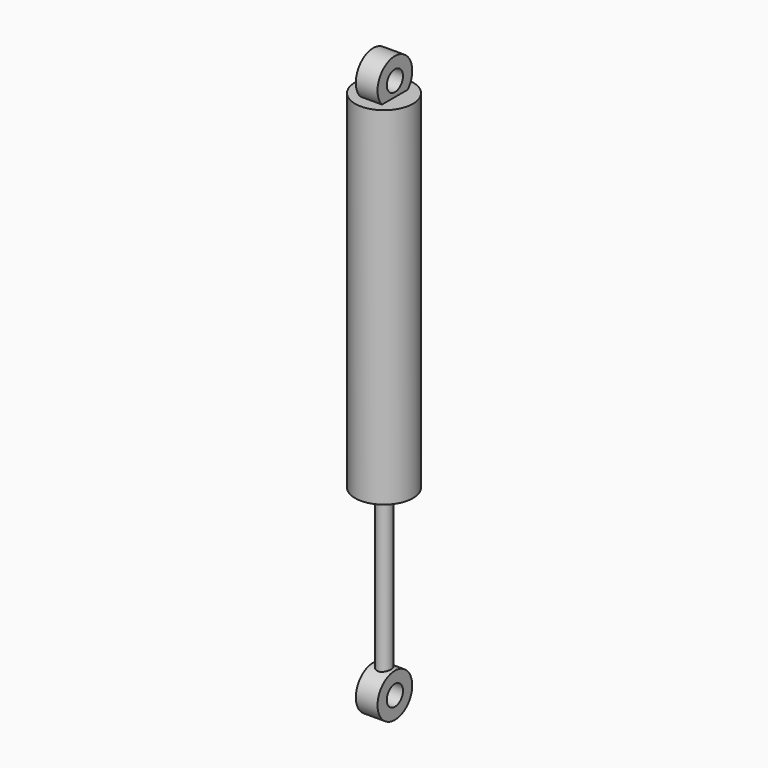
from build123d import *

# Parameters (mm, degrees)
F0_R          = 20
F1_DEPTH      = 240
F2_R          = 15
F2_R_2        = 7
F3_DEPTH      = 7.5
F4_R          = 5
F5_DEPTH      = 115
F6_DEPTH      = 114
F6_DEPTH_BACK = 20
F7_R          = 15
F7_R_2        = 7
F8_DEPTH      = 7.5


with BuildPart() as f1:
    # F0 (on Top) → F1 (new body)
    with BuildSketch(Plane.XY):
        Circle(F0_R)
    extrude(amount=F1_DEPTH)

    # F2 (on Right) → F3 (join, symmetric)
    with BuildSketch(Plane.YZ):
        with Locations((0, 250)):
            Circle(F2_R)
        with Locations((0, 250)):
            Circle(F2_R_2, mode=Mode.SUBTRACT)
    extrude(amount=F3_DEPTH, both=True)

    # F4 (on face) → F5 (cut)
    with BuildSketch(Plane(origin=(0, 0, 0), x_dir=(1, 0, 0), z_dir=(0, 0, -1))):
        Circle(F4_R)
    extrude(amount=-F5_DEPTH, mode=Mode.SUBTRACT)


with BuildPart() as f6:
    # F4 (on face) → F6 (new body, two sides)
    with BuildSketch(Plane(origin=(0, 0, 0), x_dir=(1, 0, 0), z_dir=(0, 0, -1))) as f6_sk:
        Circle(F4_R)
    extrude(amount=F6_DEPTH)
    extrude(f6_sk.sketch, amount=-F6_DEPTH_BACK)

    # F7 (on Right) → F8 (join, symmetric)
    with BuildSketch(Plane.YZ):
        with Locations((0, -124)):
            Circle(F7_R)
        with Locations((0, -124)):
            Circle(F7_R_2, mode=Mode.SUBTRACT)
    extrude(amount=F8_DEPTH, both=True)


solid = Compound([f1.part, f6.part])
